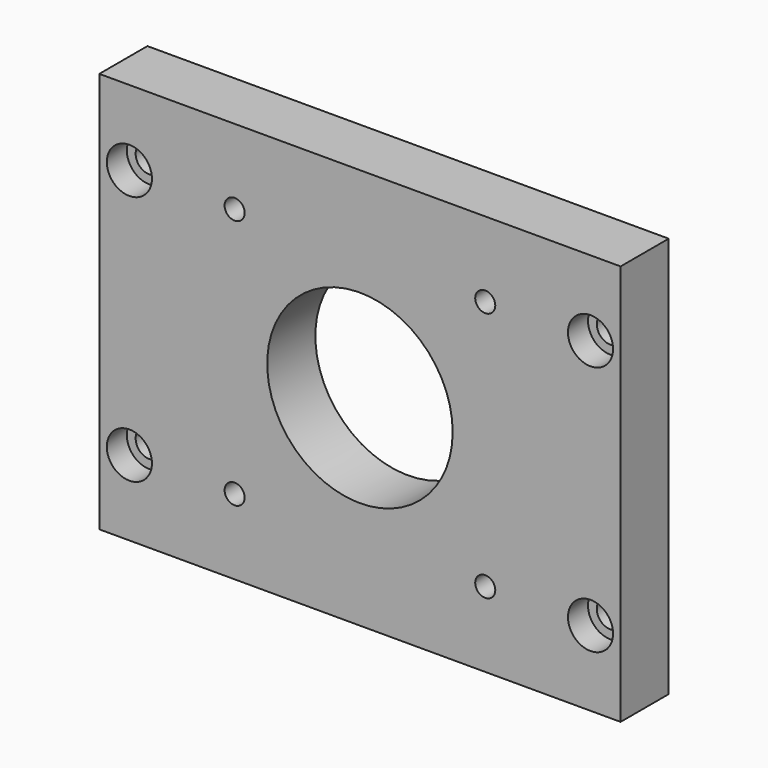
from build123d import *

# Parameters (mm, degrees)
F0_W     = 104
F0_H     = 80
F0_R     = 2.75
F0_R_2   = 2
F0_R_3   = 18.5
F1_DEPTH = 12
F2_R     = 4.5
F3_DEPTH = 5


with BuildPart() as f1:
    # F0 (on Front) → F1 (new body)
    with BuildSketch(Plane.XZ):
        with Locations((52, 40)):
            Rectangle(F0_W, F0_H)
        with Locations((6, 15)):
            Circle(F0_R, mode=Mode.SUBTRACT)
        with Locations((27, 15)):
            Circle(F0_R_2, mode=Mode.SUBTRACT)
        with Locations((77, 15)):
            Circle(F0_R_2, mode=Mode.SUBTRACT)
        with Locations((98, 15)):
            Circle(F0_R, mode=Mode.SUBTRACT)
        with Locations((6, 65)):
            Circle(F0_R, mode=Mode.SUBTRACT)
        with Locations((27, 65)):
            Circle(F0_R_2, mode=Mode.SUBTRACT)
        with Locations((52, 40)):
            Circle(F0_R_3, mode=Mode.SUBTRACT)
        with Locations((77, 65)):
            Circle(F0_R_2, mode=Mode.SUBTRACT)
        with Locations((98, 65)):
            Circle(F0_R, mode=Mode.SUBTRACT)
    extrude(amount=F1_DEPTH)

    # F2 (on face) → F3 (cut)
    with BuildSketch(Plane.XZ.offset(12)):
        with Locations((6, 65)):
            Circle(F2_R)
        with Locations((98, 65)):
            Circle(F2_R)
        with Locations((98, 15)):
            Circle(F2_R)
        with Locations((6, 15)):
            Circle(F2_R)
    extrude(amount=-F3_DEPTH, mode=Mode.SUBTRACT)


solid = f1.part
